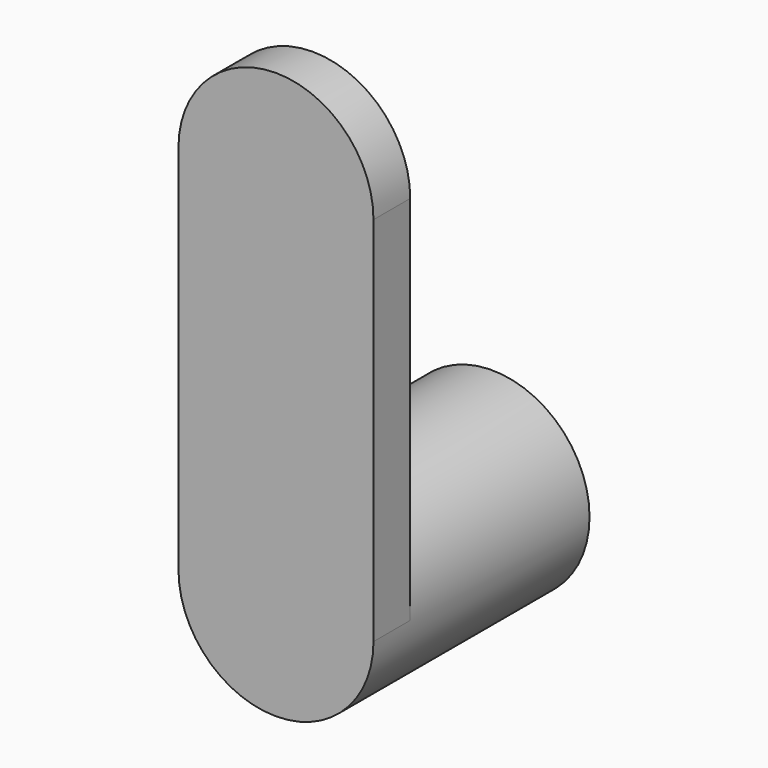
from build123d import *

# Parameters (mm, degrees)
F1_DEPTH = 108.966
F2_DEPTH = 18.542


with BuildPart() as f1:
    # F0 (on Front) → F1 (new body)
    with BuildSketch(Plane.XZ):
        with BuildLine():
            ThreePointArc((-39.341677, -77.595275), (0, -116.936952), (39.341677, -77.595275))
            Line((39.341677, -77.595275), (-39.341677, -77.595275))
        make_face()
        with BuildLine():
            Line((-39.341677, -77.595275), (39.341677, -77.595275))
            ThreePointArc((39.341677, -77.595275), (0, -38.253598), (-39.341677, -77.595275))
        make_face()
    extrude(amount=-F1_DEPTH)

    # F0 (on Front) → F2 (join)
    with BuildSketch(Plane.XZ):
        with BuildLine():
            Line((39.341677, -77.595275), (39.341677, 72.270408))
            ThreePointArc((39.341677, 72.270408), (0, 32.928731), (-39.341677, 72.270408))
            Line((-39.341677, 72.270408), (-39.341677, -77.595275))
            ThreePointArc((-39.341677, -77.595275), (0, -38.253598), (39.341677, -77.595275))
        make_face()
        with BuildLine():
            ThreePointArc((-39.341677, 72.270408), (0, 32.928731), (39.341677, 72.270408))
            Line((39.341677, 72.270408), (-39.341677, 72.270408))
        make_face()
        with BuildLine():
            Line((-39.341677, 72.270408), (39.341677, 72.270408))
            ThreePointArc((39.341677, 72.270408), (0, 111.612085), (-39.341677, 72.270408))
        make_face()
    extrude(amount=-F2_DEPTH)


solid = f1.part
